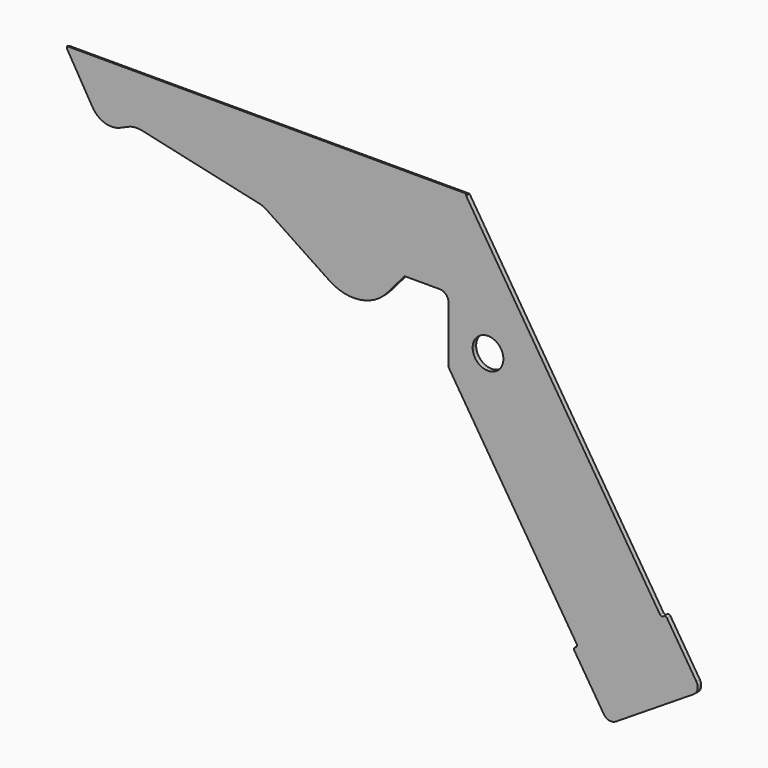
from build123d import *

# Parameters (mm, degrees)
F0_R     = 3.5
F1_DEPTH = 1
F3_DEPTH = 91


with BuildPart() as f1:
    # F0 (on Front) → F1 (new body)
    with BuildSketch(Plane.XZ):
        with BuildLine():
            Line((44.1944469757, -69.6642006809), (0, 0))
            Line((0, 0), (-91, 0))
            Line((-91, 0), (-85.111595395, -9.9625887652))
            ThreePointArc((-85.111595395, -9.9625887652), (-82.3432559162, -12.1767043904), (-78.802848444, -11.999147633))
            Line((-78.802848444, -11.999147633), (-77.0268528032, -11.222016072))
            ThreePointArc((-77.0268528032, -11.222016072), (-75.5047182131, -10.825987029), (-73.934865466, -10.9223979508))
            Line((-73.934865466, -10.9223979508), (-47.1580933481, -16.8897892489))
            ThreePointArc((-47.1580933481, -16.8897892489), (-46.2819912694, -17.1718225775), (-45.4724272309, -17.6096624093))
            Line((-45.4724272309, -17.6096624093), (-31.1415791523, -27.1624136471))
            ThreePointArc((-31.1415791523, -27.1624136471), (-24.236960496, -28.7489552461), (-18.0139730217, -25.3629103661))
            Line((-18.0139730217, -25.3629103661), (-14, -20.6966384972))
            Line((-14, -20.6966384972), (-6, -20.6966384972))
            ThreePointArc((-6, -20.6966384972), (-4.5857864376, -21.2824249348), (-4, -22.6966384972))
            Line((-4, -22.6966384972), (-4, -35.6966384972))
            Line((-4, -35.6966384972), (25.1951195173, -81.7172316743))
            ThreePointArc((25.1951195173, -81.7172316743), (25.260852979, -82.094227326), (25.0407573736, -82.4072840843))
            Line((25.0407573736, -82.4072840843), (24.8296537352, -82.5412066509))
            ThreePointArc((24.8296537352, -82.5412066509), (24.6095581299, -82.8542634092), (24.6752915915, -83.231259061))
            Line((24.6752915915, -83.231259061), (31.3714199212, -93.7864409823))
            ThreePointArc((31.3714199212, -93.7864409823), (32.6236469544, -94.6668234036), (34.1316295614, -94.403889557))
            Line((34.1316295614, -94.403889557), (51.8643351892, -83.1543939632))
            ThreePointArc((51.8643351892, -83.1543939632), (52.7447176105, -81.9021669299), (52.4817837639, -80.394184323))
            Line((52.4817837639, -80.394184323), (45.7856554342, -69.8390024016))
            ThreePointArc((45.7856554342, -69.8390024016), (45.4725986759, -69.6189067963), (45.0956030242, -69.684640258))
            Line((45.0956030242, -69.684640258), (44.8844993858, -69.8185628246))
            ThreePointArc((44.8844993858, -69.8185628246), (44.507503734, -69.8842962862), (44.1944469757, -69.6642006809))
        make_face()
        with Locations((5, -30)):
            Circle(F0_R, mode=Mode.SUBTRACT)
    extrude(amount=F1_DEPTH)

    # F2 (on Right) → F3 (join, through all)
    with BuildSketch(Plane.YZ):
        with BuildLine():
            ThreePointArc((0, 0), (-0.5030595353, 0.2071082724), (-1, 0.4284968608))
            Line((-1, 0.4284968608), (-1, 0))
            Line((-1, 0), (0, 0))
        make_face()
    extrude(amount=-F3_DEPTH)


solid = f1.part
